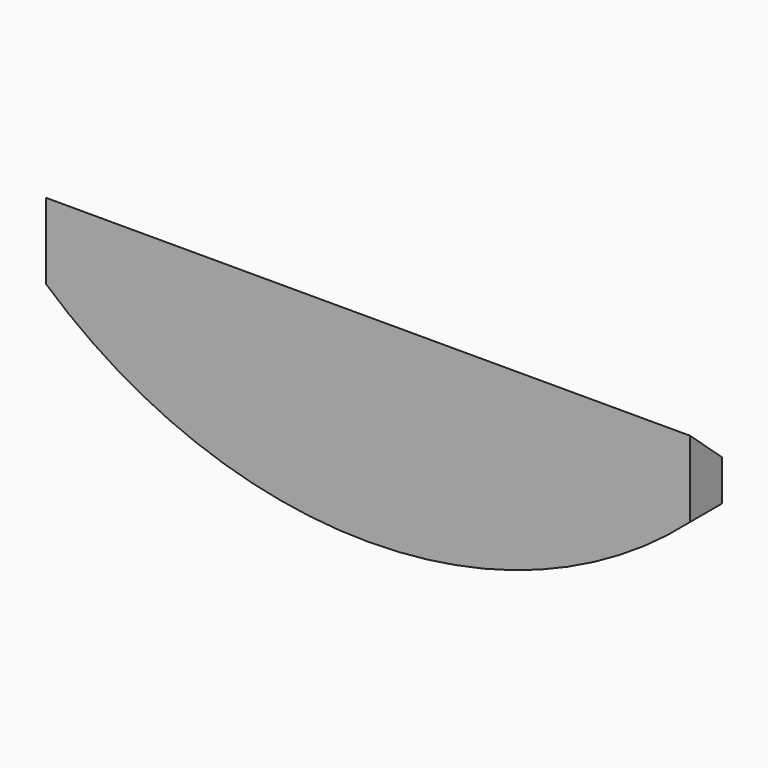
from build123d import *

# Parameters (mm, degrees)
F1_DEPTH = 19.05
F3_DEPTH = 308.5084


with BuildPart() as f1:
    # F0 (on Front) → F1 (new body)
    with BuildSketch(Plane.XZ):
        with BuildLine():
            Line((154.2542, 0), (-154.2542, 0))
            Line((-154.2542, 0), (-154.2542, -36.384438))
            ThreePointArc((-154.2542, -36.384438), (0, -94.903994), (154.2542, -36.384438))
            Line((154.2542, -36.384438), (154.2542, 0))
        make_face()
    extrude(amount=F1_DEPTH)

    # F2 (on face) → F3 (cut, through all)
    with BuildSketch(Plane(origin=(-154.2542, 0, 0), x_dir=(0, -1, 0), z_dir=(-1, 0, 0))):
        Polygon((19.05, 0), (0, 0), (0, -16.801993), align=None)
    extrude(amount=-F3_DEPTH, mode=Mode.SUBTRACT)


solid = f1.part
